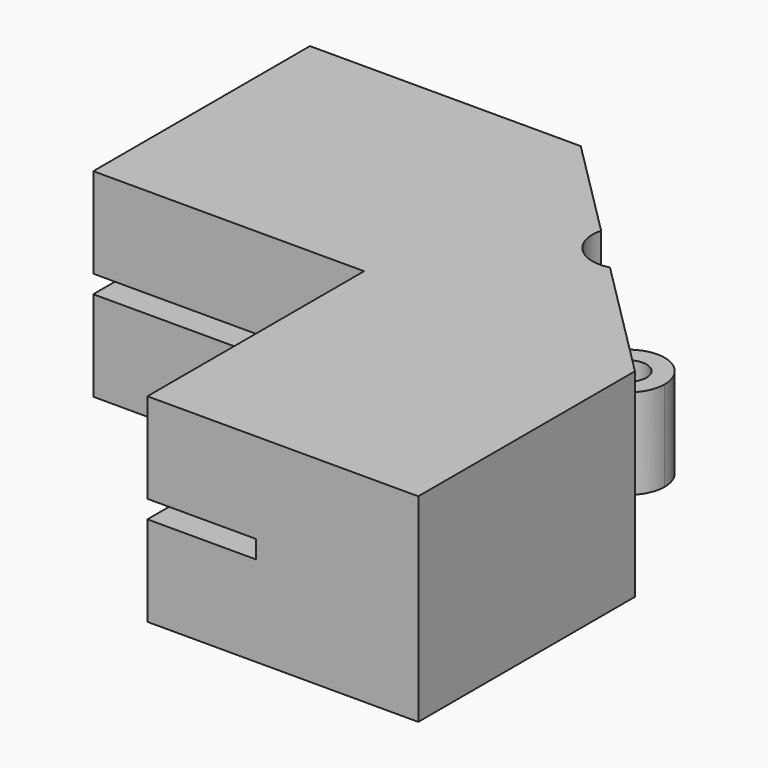
from build123d import *

# Parameters (mm, degrees)
F0_W     = 30
F0_H     = 30
F1_DEPTH = 12
F2_W     = 12
F2_H     = 30
F2_H_2   = 12
F2_W_2   = 30
F3_DEPTH = 3.5
F4_W     = 30
F4_H     = 12
F4_W_2   = 12
F4_H_2   = 30
F4_H_3   = 18
F4_W_3   = 18
F5_DEPTH = 10
F6_DEPTH = 10


with BuildPart() as f1:
    # F0 (on Top) → F1 (new body)
    with BuildSketch(Plane.XY):
        with Locations((15, -15)):
            Rectangle(F0_W, F0_H)
        with BuildLine():
            Line((0, 30), (0, 0))
            Line((0, 0), (30, 0))
            Line((30, 0), (16.1747587326, 13.8252412674))
            ThreePointArc((16.1747587326, 13.8252412674), (12.3110554274, 14.8605174478), (11.275779247, 18.724220753))
            Line((11.275779247, 18.724220753), (0, 30))
        make_face()
        with Locations((-15, 15)):
            Rectangle(F0_W, F0_H)
    extrude(amount=F1_DEPTH)

    # F2 (on face) → F3 (cut)
    with BuildSketch(Plane.XY.offset(12)):
        with Locations((6, -15)):
            Rectangle(F2_W, F2_H)
        with Locations((6, 6)):
            Rectangle(F2_W, F2_H_2)
        with Locations((-15, 6)):
            Rectangle(F2_W_2, F2_H_2)
    extrude(amount=-F3_DEPTH, mode=Mode.SUBTRACT)

    # F4 (on face) → F5 (join)
    with BuildSketch(Plane.XY.offset(12)):
        with Locations((-15, 6)):
            Rectangle(F4_W, F4_H)
        with Locations((6, -15)):
            Rectangle(F4_W_2, F4_H_2)
        with BuildLine():
            Line((11.275779247, 18.724220753), (0, 30))
            Line((0, 30), (0, 12))
            Line((0, 12), (12, 12))
            Line((12, 12), (12, 0))
            Line((12, 0), (30, 0))
            Line((30, 0), (16.1747587326, 13.8252412674))
            ThreePointArc((16.1747587326, 13.8252412674), (12.3110554274, 14.8605174478), (11.275779247, 18.724220753))
        make_face()
        with Locations((6, 6)):
            Rectangle(F4_W_2, F4_H)
        with Locations((-15, 21)):
            Rectangle(F4_W, F4_H_3)
        with Locations((21, -15)):
            Rectangle(F4_W_3, F4_H_2)
    extrude(amount=F5_DEPTH)

    # F0 (on Top) → F6 (join)
    with BuildSketch(Plane.XY):
        with Locations((-15, 15)):
            Rectangle(F0_W, F0_H)
        with BuildLine():
            Line((0, 30), (0, 0))
            Line((0, 0), (30, 0))
            Line((30, 0), (16.1747587326, 13.8252412674))
            ThreePointArc((16.1747587326, 13.8252412674), (12.3110554274, 14.8605174478), (11.275779247, 18.724220753))
            Line((11.275779247, 18.724220753), (0, 30))
        make_face()
        with Locations((15, -15)):
            Rectangle(F0_W, F0_H)
        with BuildLine():
            ThreePointArc((19.1394825522, 17.6889445726), (15.6615873211, 21.6547240181), (11.275779247, 18.724220753))
            Line((11.275779247, 18.724220753), (13.7252689898, 16.2747310102))
            Line((13.7252689898, 16.2747310102), (16.1747587326, 13.8252412674))
            ThreePointArc((16.1747587326, 13.8252412674), (18.3128959133, 15.2538988565), (19.1394825522, 17.6889445726))
        make_face()
        with BuildLine():
            ThreePointArc((17.1394825522, 17.6889445726), (15.9048494169, 15.8411855075), (13.7252689898, 16.2747310102))
            ThreePointArc((13.7252689898, 16.2747310102), (14.3741156874, 19.5367036376), (17.1394825522, 17.6889445726))
        make_face(mode=Mode.SUBTRACT)
        with BuildLine():
            Line((13.7252689898, 16.2747310102), (11.275779247, 18.724220753))
            ThreePointArc((11.275779247, 18.724220753), (12.3110554274, 14.8605174478), (16.1747587326, 13.8252412674))
            Line((16.1747587326, 13.8252412674), (13.7252689898, 16.2747310102))
        make_face()
    extrude(amount=F6_DEPTH)


solid = f1.part
